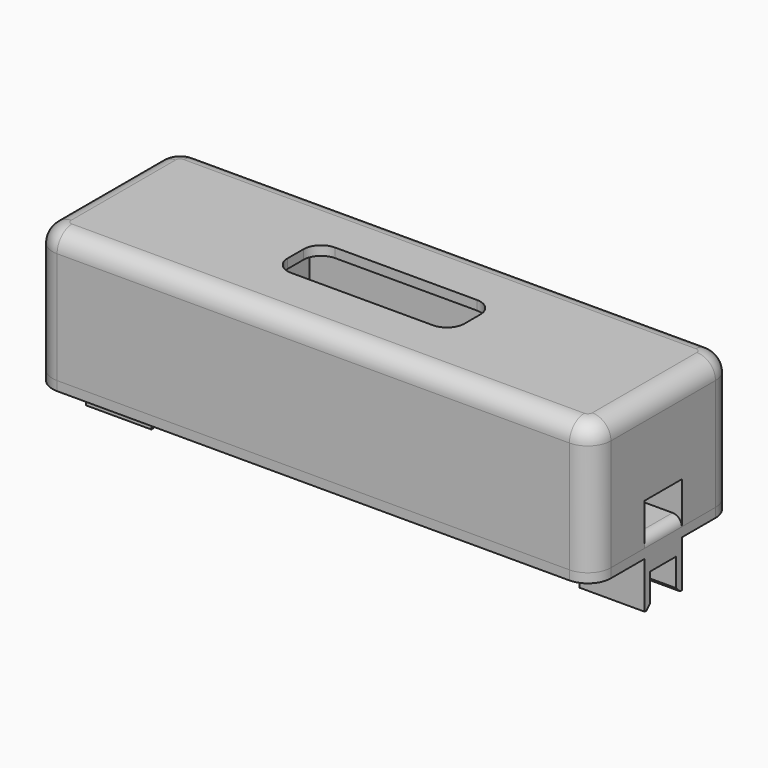
from build123d import *

# Parameters (mm, degrees)
PAD_DEPTH       = 15
SKETCH001_W     = 23.35
SKETCH001_H     = 9.2
POCKET_DEPTH    = 14
POCKET001_DEPTH = 1.001
SKETCH003_W     = 18.6
SKETCH003_H     = 5
POCKET002_DEPTH = 5.5
FILLET_R        = 2
PAD001_DEPTH    = 2
SKETCH005_W     = 7
SKETCH005_H     = 5
PAD002_DEPTH    = 5
SKETCH007_W     = 20
SKETCH007_H     = 4.5
PAD003_DEPTH    = 0.5
FILLET001_R     = 1
SKETCH008_W     = 7
SKETCH008_H     = 3.5
POCKET003_DEPTH = 3.5
CHAMFER_SIZE    = 0.5


with BuildPart() as body:
    # Sketch → Pad (new body)
    with BuildSketch(Plane.XY):
        with BuildLine():
            Line((-30, 7.02), (-30, -7.02))
            ThreePointArc((-30, -7.02), (-29.273625, -8.773625), (-27.52, -9.5))
            Line((-27.52, -9.5), (27.52, -9.5))
            ThreePointArc((27.52, -9.5), (29.273625, -8.773625), (30, -7.02))
            Line((30, -7.02), (30, 7.02))
            ThreePointArc((30, 7.02), (29.273625, 8.773625), (27.52, 9.5))
            Line((27.52, 9.5), (-27.52, 9.5))
            ThreePointArc((-27.52, 9.5), (-29.273625, 8.773625), (-30, 7.02))
        make_face()
    extrude(amount=PAD_DEPTH)

    # Sketch001 (on Face9 of Pad) → Pocket (cut)
    with BuildSketch(Plane(origin=(0, 0, 0), x_dir=(1, 0, 0), z_dir=(0, 0, -1))):
        Rectangle(SKETCH001_W, SKETCH001_H)
    extrude(amount=-POCKET_DEPTH, mode=Mode.SUBTRACT)

    # Sketch002 (on Face15 of Pocket) → Pocket001 (cut, through all)
    with BuildSketch(Plane(origin=(0, 0, 14), x_dir=(1, 0, 0), z_dir=(0, 0, -1))):
        with BuildLine():
            Line((-9.5, 1.062611), (-9.5, -1.062611))
            ThreePointArc((-9.5, -1.062611), (-8.947197, -2.397197), (-7.612611, -2.95))
            Line((-7.612611, -2.95), (7.612611, -2.95))
            ThreePointArc((7.612611, -2.95), (8.947197, -2.397197), (9.5, -1.062611))
            Line((9.5, -1.062611), (9.5, 1.062611))
            ThreePointArc((9.5, 1.062611), (8.947197, 2.397197), (7.612611, 2.95))
            Line((7.612611, 2.95), (-7.612611, 2.95))
            ThreePointArc((-7.612611, 2.95), (-8.947197, 2.397197), (-9.5, 1.062611))
        make_face()
    extrude(amount=-POCKET001_DEPTH, mode=Mode.SUBTRACT)

    # Sketch003 (on Face4 of Pocket001) → Pocket002 (cut)
    with BuildSketch(Plane(origin=(0, 0, 0), x_dir=(1, 0, 0), z_dir=(0, 0, -1))):
        with Locations((-20.8, 0)):
            Rectangle(SKETCH003_W, SKETCH003_H)
        with Locations((20.8, 0)):
            Rectangle(SKETCH003_W, SKETCH003_H)
    extrude(amount=-POCKET002_DEPTH, mode=Mode.SUBTRACT)

    # Fillet
    fillet_edges = [body.edges().sort_by_distance(p)[0] for p in [
        (0, -9.5, 15),
        (0, 9.5, 15),
    ]]
    fillet(fillet_edges, radius=FILLET_R)


with BuildPart() as body001:
    # Sketch004 → Pad001 (new body)
    with BuildSketch(Plane.XY):
        with BuildLine():
            Line((-30, 7.02), (-30, -7.02))
            ThreePointArc((-30, -7.02), (-29.273625, -8.773625), (-27.52, -9.5))
            Line((-27.52, -9.5), (27.52, -9.5))
            ThreePointArc((27.52, -9.5), (29.273625, -8.773625), (30, -7.02))
            Line((30, -7.02), (30, 7.02))
            ThreePointArc((30, 7.02), (29.273625, 8.773625), (27.52, 9.5))
            Line((27.52, 9.5), (-27.52, 9.5))
            ThreePointArc((-27.52, 9.5), (-29.273625, 8.773625), (-30, 7.02))
        make_face()
    extrude(amount=PAD001_DEPTH)

    # Sketch005 (on Face9 of Pad001) → Pad002 (join)
    with BuildSketch(Plane(origin=(0, 0, 0), x_dir=(1, 0, 0), z_dir=(0, 0, -1))):
        with Locations((-26.5, 0)):
            Rectangle(SKETCH005_W, SKETCH005_H)
        with Locations((26.5, 0)):
            Rectangle(SKETCH005_W, SKETCH005_H)
    extrude(amount=PAD002_DEPTH)

    # Sketch007 → Pad003 (join)
    with BuildSketch(Plane(origin=(0, 0, 0), x_dir=(1, 0, 0), z_dir=(0, 0, -1))):
        Rectangle(SKETCH007_W, SKETCH007_H)
    extrude(amount=PAD003_DEPTH)

    # Fillet001
    fillet001_edges = [body001.edges().sort_by_distance(p)[0] for p in [
        (0, 9.5, 2),
        (0, -9.5, 2),
    ]]
    fillet(fillet001_edges, radius=FILLET001_R)

    # Sketch008 (on DatumPlane) → Pocket003 (cut)
    with BuildSketch(Plane(origin=(0, 0, -5), x_dir=(1, 0, 0), z_dir=(0, 0, -1))):
        with Locations((-26.5, 0)):
            Rectangle(SKETCH008_W, SKETCH008_H)
        with Locations((26.5, 0)):
            Rectangle(SKETCH008_W, SKETCH008_H)
    extrude(amount=-POCKET003_DEPTH, mode=Mode.SUBTRACT)

    # Chamfer
    chamfer_edges = [body001.edges().sort_by_distance(p)[0] for p in [
        (26.5, -1.75, -5),
        (26.5, 1.75, -5),
        (-26.5, 1.75, -5),
        (-26.5, -1.75, -5),
    ]]
    chamfer(chamfer_edges, length=CHAMFER_SIZE)


solid = Compound([body.part, body001.part])
